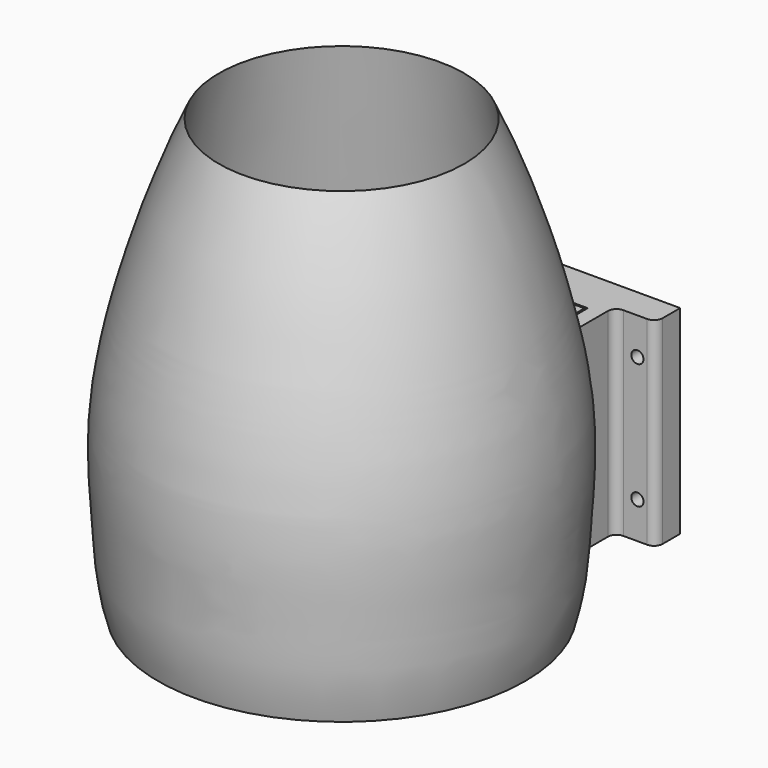
from build123d import *

# Parameters (mm, degrees)
F3_DEPTH  = 38.1
F4_W      = 19.05
F4_H      = 38.1
F5_DEPTH  = 3.175
F6_R      = 1.27
F8_DEPTH  = 38.1
F9_W      = 26.162
F9_H      = 10.16
F10_DEPTH = 3.175
F11_W     = 43.18
F11_H     = 6.35
F12_DEPTH = 41.275
F13_R     = 1.778
F14_R     = 1.27
F15_DEPTH = 6.351
F16_SIZE2 = 7.62
F16_SIZE  = 2.54
F17_W     = 73.66
F17_H     = 2.286
F18_DEPTH = 33.02
F19_R     = 4.7625
F20_DEPTH = 60.9161718568
F21_R     = 2.54


with BuildPart() as f1:
    # F0 (on Front) → F1 (revolve)
    with BuildSketch(Plane.XZ):
        with BuildLine():
            Line((33.528, 43.18), (33.528, 0))
            Line((33.528, 0), (38.1, 0))
            add(Edge.make_bspline(
                [(25.4767466553, 90.4750972986), (31.2894620001, 78.3765166998), (42.818655368, 43.0657411715), (40.4016510741, 18.4703784937), (39.9777391883, 6.1743821026), (38.1, 0)],
                knots=[0, 0, 0, 0, 0.432558816, 0.7401850475, 1, 1, 1, 1], degree=3))
            Line((25.4767466553, 90.4750972986), (33.528, 43.18))
        make_face()
    revolve(axis=Axis((0, 0, 5.9828031808), (0, 0, -1)))

    # F2 (on face) → F3 (join)
    with BuildSketch(Plane(origin=(0, 0, 0), x_dir=(1, 0, 0), z_dir=(0, 0, -1))):
        with BuildLine():
            ThreePointArc((4.7625, -37.8011718568), (0, -38.1), (-4.7625, -37.8011718568))
            Line((-4.7625, -37.8011718568), (-4.7625, -47.9611718568))
            Line((-4.7625, -47.9611718568), (4.7625, -47.9611718568))
            Line((4.7625, -47.9611718568), (4.7625, -37.8011718568))
        make_face()
    extrude(amount=-F3_DEPTH)

    # F4 (on face) → F5 (join)
    with BuildSketch(Plane(origin=(0, 47.9611718568, 0), x_dir=(-1, 0, 0), z_dir=(0, 1, 0))):
        with Locations((0, 19.05)):
            Rectangle(F4_W, F4_H)
    extrude(amount=F5_DEPTH)

    # F6
    f6_edges = [f1.edges().sort_by_distance(p)[0] for p in [
        (-4.7625, 40.363168, 18.951413),
        (0, 40.79878, 38.1),
        (4.7625, 40.363168, 18.951413),
        (4.7625, 44.240516, 38.1),
        (-4.7625, 44.240516, 38.1),
    ]]
    fillet(f6_edges, radius=F6_R)

    # F16
    f16_edges = [f1.edges().sort_by_distance(p)[0] for p in [
        (-33.528, 0, 0),
    ]]
    chamfer(f16_edges, length=F16_SIZE, length2=F16_SIZE2)

    # F17 (on Top) → F18 (cut)
    with BuildSketch(Plane.XY):
        Rectangle(F17_W, F17_H)
    extrude(amount=F18_DEPTH, mode=Mode.SUBTRACT)

    # F19 (on Front) → F20 (cut, through all)
    with BuildSketch(Plane.XZ):
        with Locations((0, 55.88)):
            Circle(F19_R)
    extrude(amount=-F20_DEPTH, mode=Mode.SUBTRACT)

    # F21
    f21_edges = [f1.edges().sort_by_distance(p)[0] for p in [
        (-33.528, 0, 43.18),
    ]]
    fillet(f21_edges, radius=F21_R)


with BuildPart() as f8:
    # F7 (on Top) → F8 (new body)
    with BuildSketch(Plane.XY):
        Polygon((-13.081, 44.4051718568), (-5.1435, 44.4051718568), (-5.1435, 47.5801718568), (-9.906, 47.5801718568), (-9.906, 51.5171718568), (9.906, 51.5171718568), (9.906, 47.5801718568), (5.1435, 47.5801718568), (5.1435, 44.4051718568), (13.081, 44.4051718568), (13.081, 54.5651718568), (-13.081, 54.5651718568), align=None)
    extrude(amount=F8_DEPTH)



with BuildPart() as f10:
    # F9 (on face) → F10 (new body)
    with BuildSketch(Plane(origin=(0, 0, 0), x_dir=(1, 0, 0), z_dir=(0, 0, -1))):
        with Locations((0, -49.4851718568)):
            Rectangle(F9_W, F9_H)
    extrude(amount=F10_DEPTH)


with BuildPart() as f8_1:
    add(f8.part)

    add(f10.part)  # F12 merges F10
    # F11 (on face) → F12 (join, through all)
    with BuildSketch(Plane(origin=(0, 0, -3.175), x_dir=(1, 0, 0), z_dir=(0, 0, -1))):
        with Locations((0, -57.7401718568)):
            Rectangle(F11_W, F11_H)
    extrude(amount=-F12_DEPTH)

    # F13
    f13_edges = [f8_1.edges().sort_by_distance(p)[0] for p in [
        (13.081, 54.565172, 17.4625),
        (21.59, 54.565172, 17.4625),
        (-13.081, 54.565172, 17.4625),
        (-21.59, 54.565172, 17.4625),
    ]]
    fillet(f13_edges, radius=F13_R)

    # F14 (on face) → F15 (cut, through all)
    with BuildSketch(Plane.XZ.offset(-54.5651718568)):
        with Locations((-17.78, 30.48)):
            Circle(F14_R)
        with Locations((-17.78, 4.445)):
            Circle(F14_R)
        with Locations((17.78, 30.48)):
            Circle(F14_R)
        with Locations((17.78, 4.445)):
            Circle(F14_R)
    extrude(amount=-F15_DEPTH, mode=Mode.SUBTRACT)


solid = Compound([f1.part, f8_1.part])
